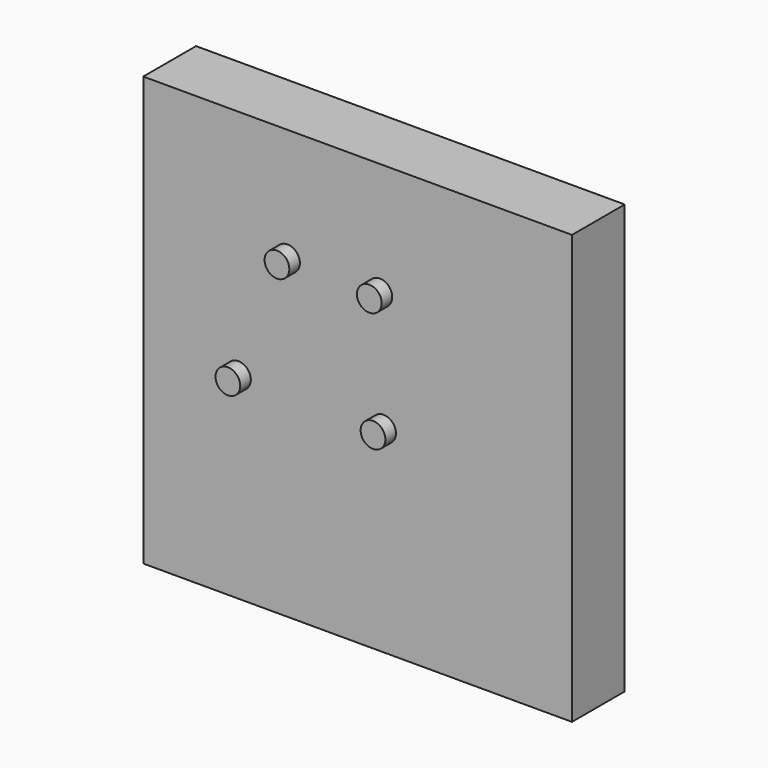
from build123d import *

# Parameters (mm, degrees)
F0_W     = 165.1
F0_H     = 165.1
F1_DEPTH = 25.4
F2_R     = 4.7625
F3_DEPTH = 5.08


with BuildPart() as f1:
    # F0 (on Front) → F1 (new body)
    with BuildSketch(Plane.XZ):
        Rectangle(F0_W, F0_H)
    extrude(amount=F1_DEPTH)

    # F2 (on face) → F3 (join)
    with BuildSketch(Plane.XZ.offset(25.4)):
        with Locations((-26.999259, 38.942747)):
            Circle(F2_R)
        with Locations((8.560741, 38.942747)):
            Circle(F2_R)
        with Locations((-45.89247, -6.777253)):
            Circle(F2_R)
        with Locations((9.98753, -6.777253)):
            Circle(F2_R)
    extrude(amount=F3_DEPTH)


solid = f1.part
